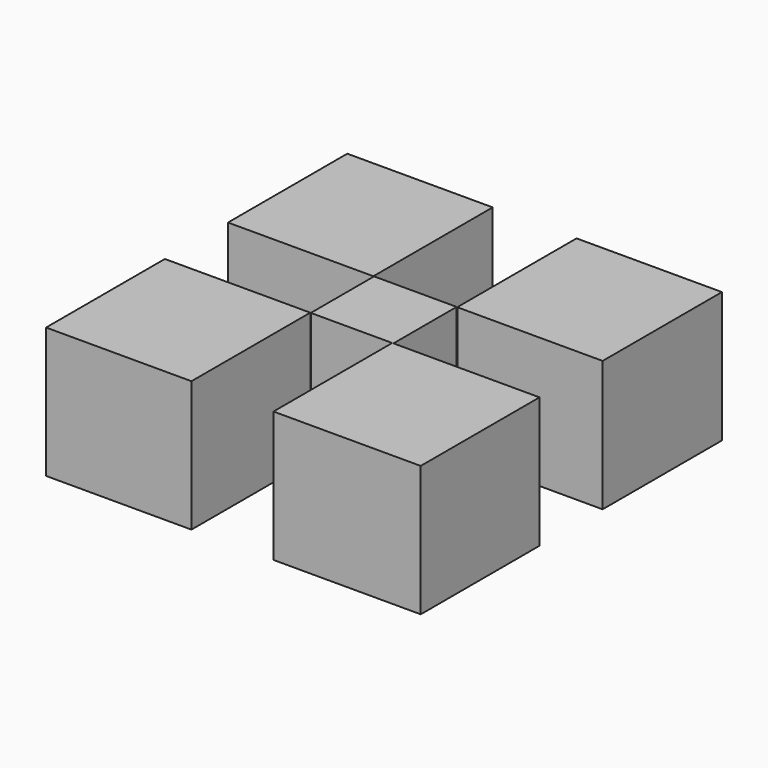
from build123d import *

# Parameters (mm, degrees)
F1_W     = 57.8571464866
F1_H     = 59.0934129432
F2_DEPTH = 52
F1_W_2   = 58.5989002138
F1_W_3   = 57.8571408987
F1_H_2   = 59.3406651169
F0_W     = 16.5366157889
F0_H     = 15.9914717078
F0_W_2   = 16.3322016597
F0_H_2   = 15.4786622152


with BuildPart() as f2:
    # F1 (on Top) → F2 (new body)
    with BuildSketch(Plane.XY):
        with Locations((-45.4945089296, -45.0000031851)):
            Rectangle(F1_W, F1_H)
    extrude(amount=-F2_DEPTH)


with BuildPart() as f2b:
    # F1 (on Top) → F2, piece 2 (new body)
    with BuildSketch(Plane.XY):
        with Locations((45.3708795831, -45.0000031851)):
            Rectangle(F1_W_2, F1_H)
    extrude(amount=-F2_DEPTH)


with BuildPart() as f2c:
    # F1 (on Top) → F2, piece 3 (new body)
    with BuildSketch(Plane.XY):
        with Locations((45.7417592406, 45.6181345508)):
            Rectangle(F1_W_3, F1_H_2)
    extrude(amount=-F2_DEPTH)


with BuildPart() as f2d:
    # F1 (on Top) → F2, piece 4 (new body)
    with BuildSketch(Plane.XY):
        with Locations((-45.4945089296, 45.6181345508)):
            Rectangle(F1_W, F1_H_2)
    extrude(amount=-F2_DEPTH)


with BuildPart() as f2e:
    # F0 (on Top) → F2, piece 5 (new body)
    with BuildSketch(Plane.XY):
        with Locations((8.2683078945, 7.9957358539)):
            Rectangle(F0_W, F0_H)
        with Locations((-8.1661008298, -7.7393311076)):
            Rectangle(F0_W_2, F0_H_2)
        with Locations((-8.1661008298, 7.9957358539)):
            Rectangle(F0_W_2, F0_H)
        with Locations((8.2683078945, -7.7393311076)):
            Rectangle(F0_W, F0_H_2)
    extrude(amount=-F2_DEPTH)


solid = Compound([f2.part, f2b.part, f2c.part, f2d.part, f2e.part])
